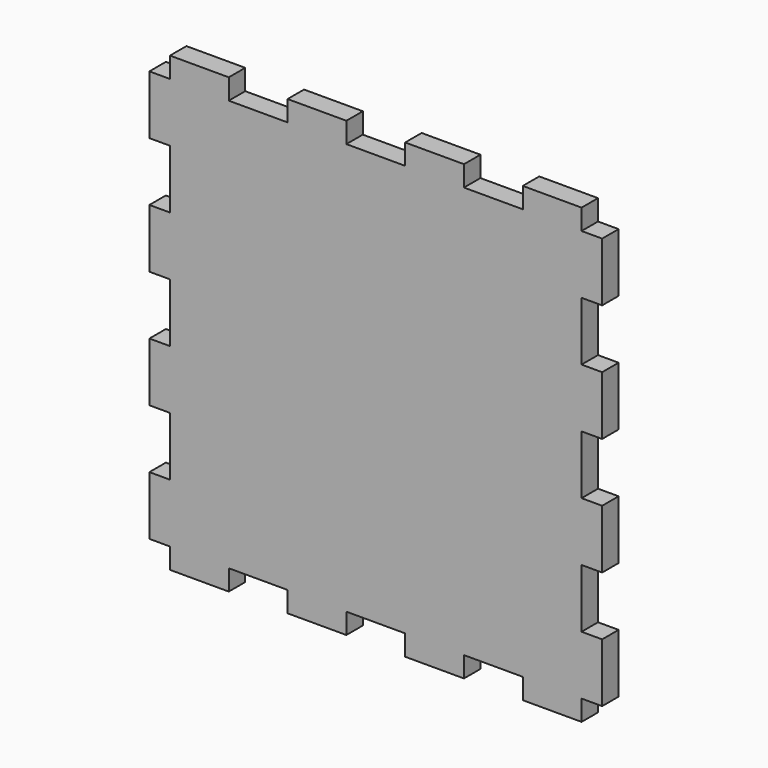
from build123d import *

# Parameters (mm, degrees)
F0_W     = 139.7
F0_H     = 139.7
F1_DEPTH = 6.35
F2_W     = 6.35
F2_H     = 6.35
F2_W_2   = 18.1428571429
F2_H_2   = 18.1428571429
F3_DEPTH = 25.4


with BuildPart() as f1:
    # F0 (on Front) → F1 (new body)
    with BuildSketch(Plane.XZ):
        Rectangle(F0_W, F0_H)
    extrude(amount=F1_DEPTH)

    # F2 (on face) → F3 (cut)
    with BuildSketch(Plane.XZ.offset(6.35)):
        with Locations((-66.675, 66.675)):
            Rectangle(F2_W, F2_H)
        with Locations((-36.2857142857, 66.675)):
            Rectangle(F2_W_2, F2_H)
        with Locations((0, 66.675)):
            Rectangle(F2_W_2, F2_H)
        with Locations((36.2857142857, 66.675)):
            Rectangle(F2_W_2, F2_H)
        with Locations((66.675, 66.675)):
            Rectangle(F2_W, F2_H)
        with Locations((66.675, 36.2857142857)):
            Rectangle(F2_W, F2_H_2)
        with Locations((66.675, 0)):
            Rectangle(F2_W, F2_H_2)
        with Locations((66.675, -36.2857142857)):
            Rectangle(F2_W, F2_H_2)
        with Locations((66.675, -66.675)):
            Rectangle(F2_W, F2_H)
        with Locations((36.2857142857, -66.675)):
            Rectangle(F2_W_2, F2_H)
        with Locations((0, -66.675)):
            Rectangle(F2_W_2, F2_H)
        with Locations((-36.2857142857, -66.675)):
            Rectangle(F2_W_2, F2_H)
        with Locations((-66.675, -66.675)):
            Rectangle(F2_W, F2_H)
        with Locations((-66.675, -36.2857142857)):
            Rectangle(F2_W, F2_H_2)
        with Locations((-66.675, 0)):
            Rectangle(F2_W, F2_H_2)
        with Locations((-66.675, 36.2857142857)):
            Rectangle(F2_W, F2_H_2)
    extrude(amount=-F3_DEPTH, mode=Mode.SUBTRACT)


solid = f1.part
